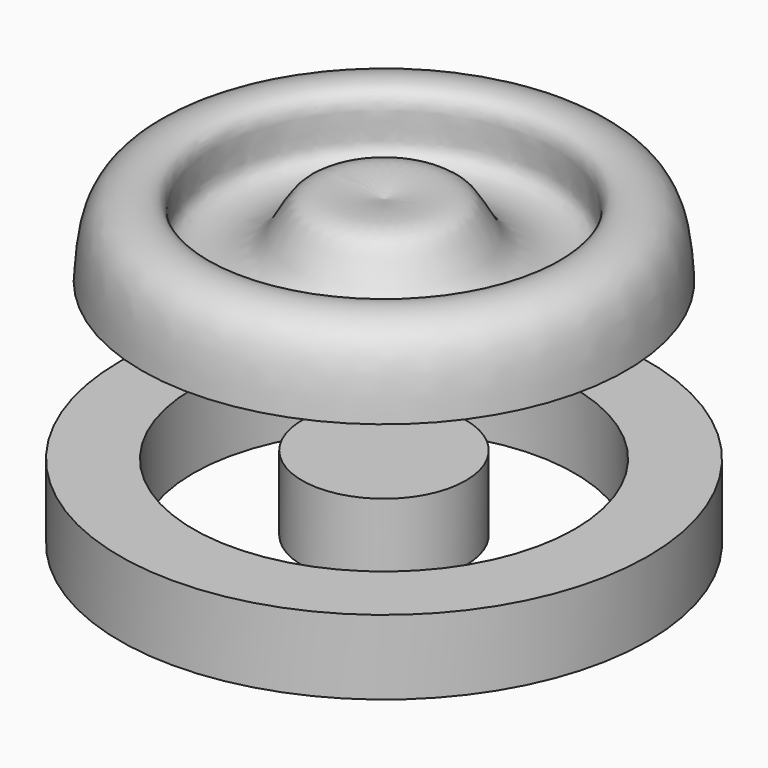
from build123d import *

# Parameters (mm, degrees)
F3_R     = 27.8888131407
F4_DEPTH = 25.4
F6_R     = 89.9545902312
F6_R_2   = 64.9564063779
F7_DEPTH = 25.4


with BuildPart() as f1:
    # F0 (on Front) → F1 (revolve)
    with BuildSketch(Plane.XZ):
        with BuildLine():
            Line((-82.5852453709, 0), (0, 0))
            Line((0, 0), (0, 24.5573222637))
            add(Edge.make_bspline(
                [(0, 24.5573222637), (-9.4569988617, 26.3845038381), (-27.3060495586, 29.8331091548), (-30.4172371452, 5.6756593549), (-63.5971263714, 3.2918801362), (-52.956700231, 28.7258640904), (-80.8614244157, 27.8707956912), (-81.9679842593, 9.9798985959), (-82.5852453709, 0)],
                knots=[0, 0, 0, 0, 0.1814231294, 0.3424163079, 0.5144862366, 0.6631209366, 0.8120821514, 1, 1, 1, 1], degree=3))
        make_face()
    revolve(axis=Axis((0, 0, 12.2786611319), (0, 0, 1)))


with BuildPart() as f4:
    # F3 (on offset) → F4 (new body)
    with BuildSketch(Plane.XY.offset(-50.8)):
        Circle(F3_R)
    extrude(amount=-F4_DEPTH)


with BuildPart() as f7:
    # F6 (on offset) → F7 (new body)
    with BuildSketch(Plane.XY.offset(-53.34)):
        Circle(F6_R)
        Circle(F6_R_2, mode=Mode.SUBTRACT)
    extrude(amount=-F7_DEPTH)


solid = Compound([f1.part, f4.part, f7.part])
